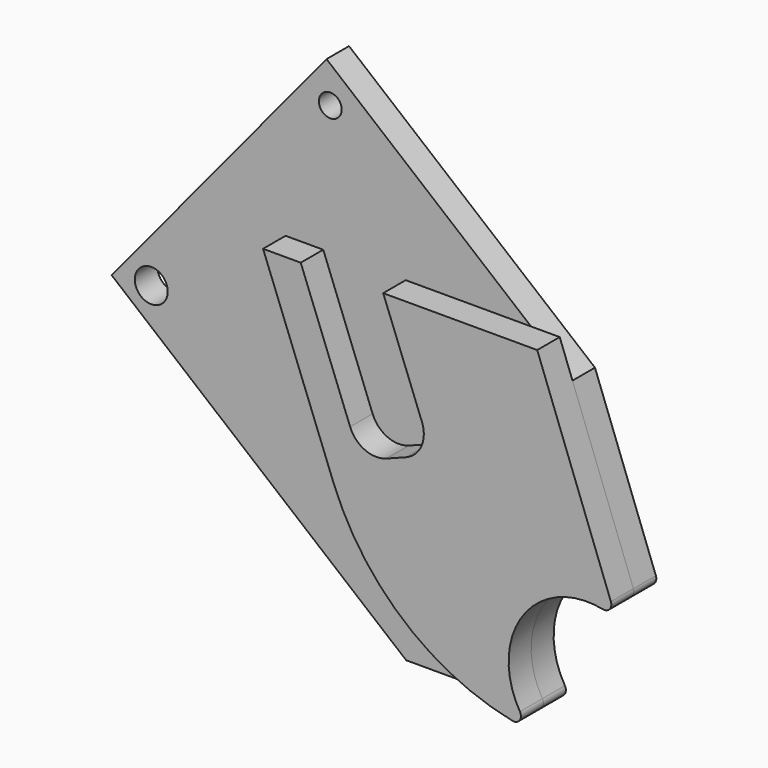
from build123d import *

# Parameters (mm, degrees)
F1_DEPTH = 6.35
F2_R     = 3.719861
F2_R_2   = 2.57246
F3_DEPTH = 6.35


with BuildPart() as f1:
    # F0 (on Front) → F1 (new body)
    with BuildSketch(Plane.XZ):
        with BuildLine():
            Line((8.504352, 0), (0, 0))
            Line((0, 0), (15.875, -41.275))
            ThreePointArc((15.875, -41.275), (31.717386, -63.578005), (56.323746, -75.533436))
            ThreePointArc((56.323746, -75.533436), (57.939116, -74.893361), (58.000531, -73.156886))
            ThreePointArc((58.000531, -73.156886), (58.704578, -53.799056), (76.734353, -46.717496))
            ThreePointArc((76.734353, -46.717496), (78.262856, -46.198124), (78.546268, -44.608864))
            Line((78.546268, -44.608864), (61.9125, 0))
            Line((61.9125, 0), (27.127028, 0))
            Line((27.127028, 0), (35.880374, -22.758699))
            ThreePointArc((35.880374, -22.758699), (35.756332, -27.617196), (32.233146, -30.964961))
            Line((32.233146, -30.964961), (27.863789, -32.645483))
            ThreePointArc((27.863789, -32.645483), (23.005293, -32.521442), (19.657528, -28.998255))
            Line((19.657528, -28.998255), (8.504352, 0))
        make_face()
    extrude(amount=F1_DEPTH)


with BuildPart() as f3:
    # F2 (on face) → F3 (new body)
    with BuildSketch(Plane(origin=(0, 0, 0), x_dir=(-1, 0, 0), z_dir=(0, 1, 0))):
        with BuildLine():
            ThreePointArc((-78.546268, -44.608864), (-78.262856, -46.198124), (-76.734353, -46.717496))
            ThreePointArc((-76.734353, -46.717496), (-58.704578, -53.799056), (-58.000531, -73.156886))
            ThreePointArc((-58.000531, -73.156886), (-57.939116, -74.893361), (-56.323746, -75.533436))
            Line((-56.323746, -75.533436), (-27.23614, -75.533436))
            Line((-27.23614, -75.533436), (39.270292, -20.611234))
            Line((39.270292, -20.611234), (-9.250678, 38.143813))
            Line((-9.250678, 38.143813), (-64.792479, -7.723601))
            Line((-64.792479, -7.723601), (-78.546268, -44.608864))
        make_face()
        with Locations((30.330624, -19.758394)):
            Circle(F2_R, mode=Mode.SUBTRACT)
        with Locations((-10.103518, 29.204145)):
            Circle(F2_R_2, mode=Mode.SUBTRACT)
    extrude(amount=F3_DEPTH)


solid = Compound([f1.part, f3.part])
